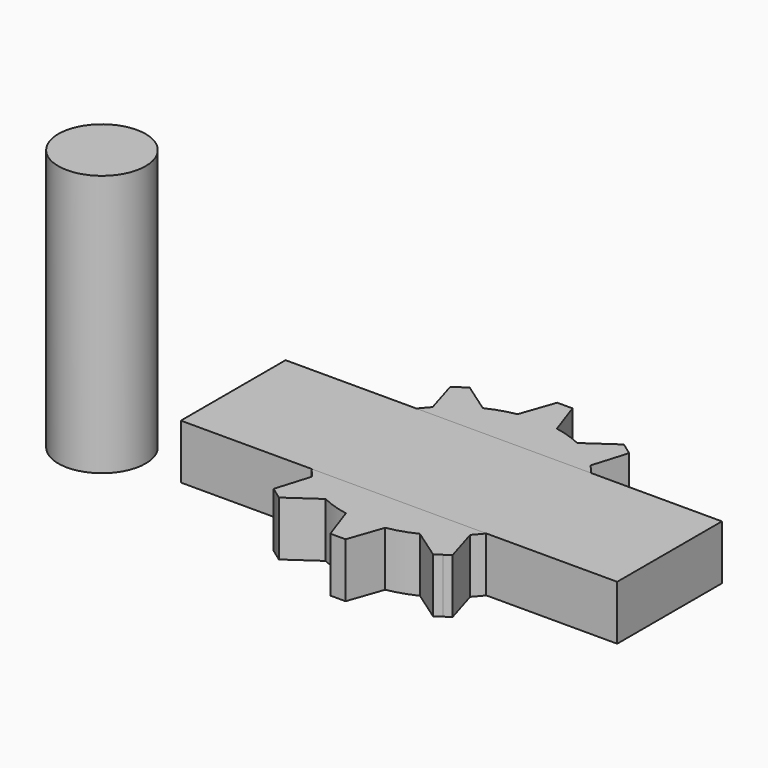
from build123d import *

# Parameters (mm, degrees)
F2_DEPTH = 25
F1_R     = 22.5
F3_DEPTH = 25
F5_W     = 200
F5_H     = 60
F6_DEPTH = 25
F7_R     = 20
F8_DEPTH = 120


with BuildPart() as f2:
    # F0 (on Top) → F2 (new body)
    with BuildSketch(Plane.XY):
        with BuildLine():
            ThreePointArc((-36.190389, 34.500083), (-29.389263, 40.45085), (-21.628083, 45.080217))
            Line((-21.628083, 45.080217), (-35.374482, 54.643353))
            Line((-35.374482, 54.643353), (-38.206041, 52.586105))
            Line((-38.206041, 52.586105), (-41.037601, 50.528856))
            Line((-41.037601, 50.528856), (-36.190389, 34.500083))
        make_face()
        with BuildLine():
            ThreePointArc((-49.55728, 6.638976), (-47.552826, 15.45085), (-43.994974, 23.757994))
            Line((-43.994974, 23.757994), (-60.737114, 23.414802))
            Line((-60.737114, 23.414802), (-61.818674, 20.086105))
            Line((-61.818674, 20.086105), (-62.900233, 16.757407))
            Line((-62.900233, 16.757407), (-49.55728, 6.638976))
        make_face()
        with BuildLine():
            Line((-60.737114, -23.414802), (-43.994974, -23.757994))
            ThreePointArc((-43.994974, -23.757994), (-47.552826, -15.45085), (-49.55728, -6.638976))
            Line((-49.55728, -6.638976), (-62.900233, -16.757407))
            Line((-62.900233, -16.757407), (-61.818674, -20.086105))
            Line((-61.818674, -20.086105), (-60.737114, -23.414802))
        make_face()
        with BuildLine():
            Line((-35.374482, -54.643353), (-21.628083, -45.080217))
            ThreePointArc((-21.628083, -45.080217), (-29.389263, -40.45085), (-36.190389, -34.500083))
            Line((-36.190389, -34.500083), (-41.037601, -50.528856))
            Line((-41.037601, -50.528856), (-38.206041, -52.586105))
            Line((-38.206041, -52.586105), (-35.374482, -54.643353))
        make_face()
        with BuildLine():
            Line((3.5, -65), (9, -49.183331))
            ThreePointArc((9, -49.183331), (0, -50), (-9, -49.183331))
            Line((-9, -49.183331), (-3.5, -65))
            Line((-3.5, -65), (0, -65))
            Line((0, -65), (3.5, -65))
        make_face()
        with BuildLine():
            Line((41.037601, -50.528856), (36.190389, -34.500083))
            ThreePointArc((36.190389, -34.500083), (29.389263, -40.45085), (21.628083, -45.080217))
            Line((21.628083, -45.080217), (35.374482, -54.643353))
            Line((35.374482, -54.643353), (38.206041, -52.586105))
            Line((38.206041, -52.586105), (41.037601, -50.528856))
        make_face()
        with BuildLine():
            Line((62.900233, -16.757407), (49.55728, -6.638976))
            ThreePointArc((49.55728, -6.638976), (47.552826, -15.45085), (43.994974, -23.757994))
            Line((43.994974, -23.757994), (60.737114, -23.414802))
            Line((60.737114, -23.414802), (61.818674, -20.086105))
            Line((61.818674, -20.086105), (62.900233, -16.757407))
        make_face()
        with BuildLine():
            ThreePointArc((43.994974, 23.757994), (47.552826, 15.45085), (49.55728, 6.638976))
            Line((49.55728, 6.638976), (62.900233, 16.757407))
            Line((62.900233, 16.757407), (61.818674, 20.086105))
            Line((61.818674, 20.086105), (60.737114, 23.414802))
            Line((60.737114, 23.414802), (43.994974, 23.757994))
        make_face()
        with BuildLine():
            ThreePointArc((21.628083, 45.080217), (29.389263, 40.45085), (36.190389, 34.500083))
            Line((36.190389, 34.500083), (41.037601, 50.528856))
            Line((41.037601, 50.528856), (38.206041, 52.586105))
            Line((38.206041, 52.586105), (35.374482, 54.643353))
            Line((35.374482, 54.643353), (21.628083, 45.080217))
        make_face()
        with BuildLine():
            ThreePointArc((-9, 49.183331), (0, 50), (9, 49.183331))
            Line((9, 49.183331), (3.5, 65))
            Line((3.5, 65), (0, 65))
            Line((0, 65), (-3.5, 65))
            Line((-3.5, 65), (-9, 49.183331))
        make_face()
        with BuildLine():
            ThreePointArc((49.55728, -6.638976), (49.889197, -3.326861), (50, 0))
            ThreePointArc((50, 0), (49.889197, 3.326861), (49.55728, 6.638976))
            ThreePointArc((49.55728, 6.638976), (47.552826, 15.45085), (43.994974, 23.757994))
            ThreePointArc((43.994974, 23.757994), (40.45085, 29.389263), (36.190389, 34.500083))
            ThreePointArc((36.190389, 34.500083), (29.389263, 40.45085), (21.628083, 45.080217))
            ThreePointArc((21.628083, 45.080217), (15.45085, 47.552826), (9, 49.183331))
            ThreePointArc((9, 49.183331), (0, 50), (-9, 49.183331))
            ThreePointArc((-9, 49.183331), (-15.45085, 47.552826), (-21.628083, 45.080217))
            ThreePointArc((-21.628083, 45.080217), (-29.389263, 40.45085), (-36.190389, 34.500083))
            ThreePointArc((-36.190389, 34.500083), (-40.45085, 29.389263), (-43.994974, 23.757994))
            ThreePointArc((-43.994974, 23.757994), (-47.552826, 15.45085), (-49.55728, 6.638976))
            ThreePointArc((-49.55728, 6.638976), (-50, 0), (-49.55728, -6.638976))
            ThreePointArc((-49.55728, -6.638976), (-47.552826, -15.45085), (-43.994974, -23.757994))
            ThreePointArc((-43.994974, -23.757994), (-40.45085, -29.389263), (-36.190389, -34.500083))
            ThreePointArc((-36.190389, -34.500083), (-29.389263, -40.45085), (-21.628083, -45.080217))
            ThreePointArc((-21.628083, -45.080217), (-15.45085, -47.552826), (-9, -49.183331))
            ThreePointArc((-9, -49.183331), (0, -50), (9, -49.183331))
            ThreePointArc((9, -49.183331), (15.45085, -47.552826), (21.628083, -45.080217))
            ThreePointArc((21.628083, -45.080217), (29.389263, -40.45085), (36.190389, -34.500083))
            ThreePointArc((36.190389, -34.500083), (40.45085, -29.389263), (43.994974, -23.757994))
            ThreePointArc((43.994974, -23.757994), (47.552826, -15.45085), (49.55728, -6.638976))
        make_face()
    extrude(amount=F2_DEPTH)

    # F1 (on Top) → F3 (cut)
    with BuildSketch(Plane.XY):
        Circle(F1_R)
    extrude(amount=F3_DEPTH, mode=Mode.SUBTRACT)


with BuildPart() as f4_1:
    # F4: copy of F2
    add(f2.part)


with BuildPart() as f6:
    # F5 (on Top) → F6 (new body)
    with BuildSketch(Plane.XY):
        Rectangle(F5_W, F5_H)
    extrude(amount=F6_DEPTH)


with BuildPart() as f8:
    # F7 (on Top) → F8 (new body)
    with BuildSketch(Plane.XY):
        with Locations((-139.062986, -26.370835)):
            Circle(F7_R)
    extrude(amount=F8_DEPTH)


solid = Compound([f2.part, f4_1.part, f6.part, f8.part])
